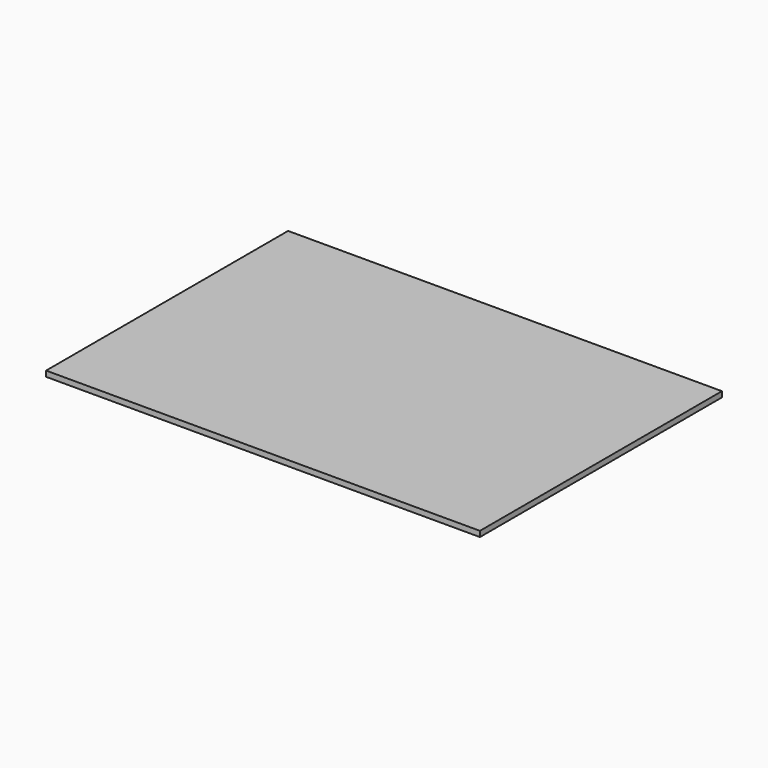
from build123d import *

# Parameters (mm, degrees)
SKETCH_W  = 393
SKETCH_H  = 274
PAD_DEPTH = 5


with BuildPart() as part:
    # Sketch → Pad (new body)
    with BuildSketch(Plane.XY):
        with Locations((196.5, 137)):
            Rectangle(SKETCH_W, SKETCH_H)
    extrude(amount=PAD_DEPTH)


solid = part.part
